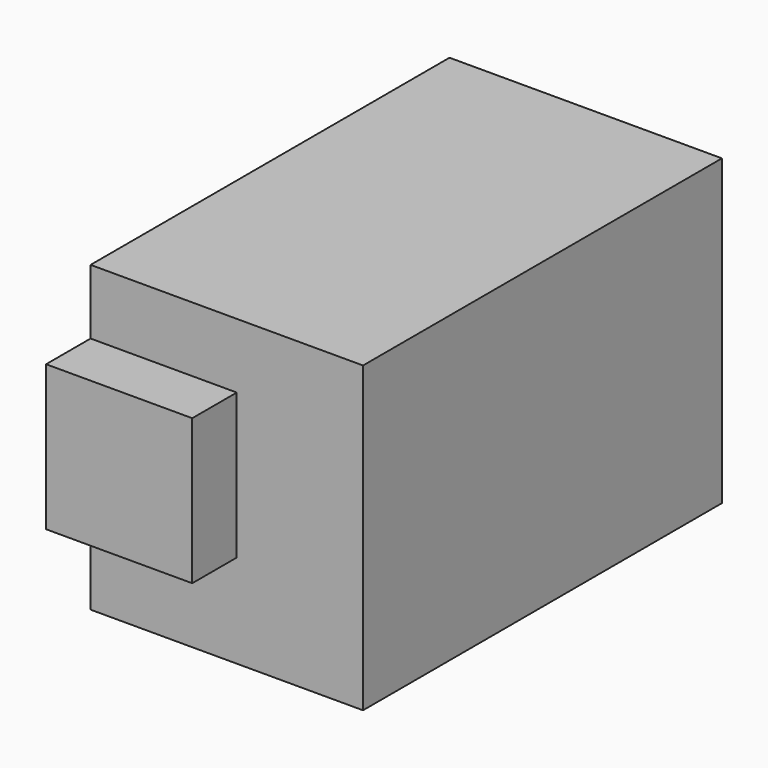
from build123d import *

# Parameters (mm, degrees)
F0_W     = 61.6968180984
F0_H     = 68.7478855252
F1_DEPTH = 50.8
F2_DEPTH = 25.4
F3_DEPTH = 25.4
F5_W     = 33.1008322537
F5_H     = 32.9049695283
F6_DEPTH = 114.40052
F7_DEPTH = 76.93265
F8_DEPTH = 127
F9_DEPTH = 80.68794


with BuildPart() as f1:
    # F0 (on Front) → F1 (new body)
    with BuildSketch(Plane.XZ):
        with Locations((-2.2524232045, 0.7834509015)):
            Rectangle(F0_W, F0_H)
    extrude(amount=F1_DEPTH)

    # F2 (add): faces of the model
    f2_faces = [f1.faces().sort_by_distance(p)[0] for p in [
        (-2.2524232045, -50.8, 0.7834509015),
        (-2.2524232045, 0, 0.7834509015),
    ]]
    extrude(f2_faces, amount=F2_DEPTH, dir=(0, -1, 0))

    # F3 (add): a face of the model
    f3_faces = [f1.faces().sort_by_distance(p)[0] for p in [
        (-2.2524232045, -76.2, 0.7834509015),
    ]]
    extrude(f3_faces, amount=F3_DEPTH)

    # F5 (on face) → F6 (join)
    with BuildSketch(Plane.XZ.offset(101.6)):
        with Locations((-16.5504161268, 4.0151895955)):
            Rectangle(F5_W, F5_H)
    extrude(amount=-F6_DEPTH)

    # F7 (add): a face of the model
    f7_faces = [f1.faces().sort_by_distance(p)[0] for p in [
        (-16.5504161268, 12.80052, 4.0151895955),
    ]]
    extrude(f7_faces, amount=-F7_DEPTH)

    # F8 (add): a face of the model
    f8_faces = [f1.faces().sort_by_distance(p)[0] for p in [
        (-16.5504161268, 12.80052, 4.0151895955),
    ]]
    extrude(f8_faces, amount=-F8_DEPTH)

    # F9 (add): a face of the model
    f9_faces = [f1.faces().sort_by_distance(p)[0] for p in [
        (-16.5504161268, -114.19948, 4.0151895955),
    ]]
    extrude(f9_faces, amount=-F9_DEPTH)


solid = f1.part
